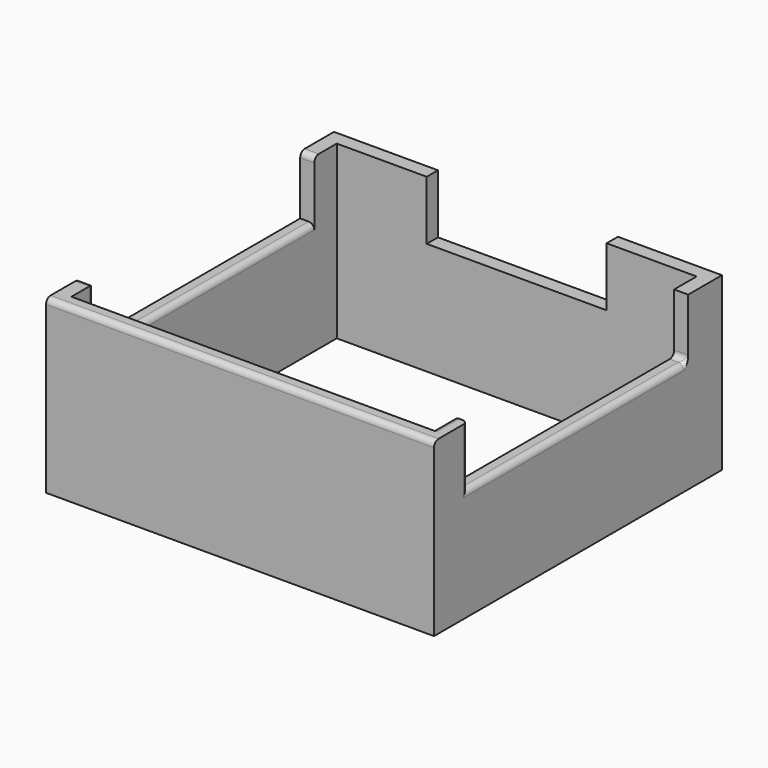
from build123d import *

# Parameters (mm, degrees)
BOX002_W     = 200
BOX002_H     = 49
BOX002_DEPTH = 12
BOX003_W     = 32
BOX003_H     = 200
BOX003_DEPTH = 12
BOX_W        = 64
BOX_H        = 59
BOX_DEPTH    = 30.5
BOX001_W     = 69
BOX001_H     = 64
BOX001_DEPTH = 30.5
FILLET_R     = 1


with BuildPart() as cut_cube:
    # Box002 → Box002 (new body)
    with BuildSketch(Plane(origin=(-50, 7.5, 20), x_dir=(1, 0, 0), z_dir=(0, 0, 1))):
        with Locations((100, 24.5)):
            Rectangle(BOX002_W, BOX002_H)
    extrude(amount=BOX002_DEPTH)


with BuildPart() as cut_cube001:
    # Box003 → Box003 (new body)
    with BuildSketch(Plane(origin=(18.5, 7.5, 20), x_dir=(1, 0, 0), z_dir=(0, 0, 1))):
        with Locations((16, 100)):
            Rectangle(BOX003_W, BOX003_H)
    extrude(amount=BOX003_DEPTH)


with BuildPart() as fusion:
    # Box → Box (new body)
    with BuildSketch(Plane(origin=(2.5, 2.5, 0), x_dir=(1, 0, 0), z_dir=(0, 0, 1))):
        with Locations((32, 29.5)):
            Rectangle(BOX_W, BOX_H)
    extrude(amount=BOX_DEPTH)

    # Fusion: union cut cube, cut cube001
    add(cut_cube.part)
    add(cut_cube001.part)


with BuildPart() as fillet_body:
    # Box001 → Box001 (new body)
    with BuildSketch(Plane.XY):
        with Locations((34.5, 32)):
            Rectangle(BOX001_W, BOX001_H)
    extrude(amount=BOX001_DEPTH)

    # Cut: cut Fusion
    add(fusion.part, mode=Mode.SUBTRACT)

    # Fillet
    fillet_edges = [fillet_body.edges().sort_by_distance(p)[0] for p in [
        (1.25, 7.5, 30.5),
        (66.5, 5, 30.5),
        (34.5, 0, 30.5),
        (2.5, 7.5, 25.25),
        (2.5, 32, 20),
        (1.25, 56.5, 30.5),
        (69, 7.5, 25.25),
        (69, 32, 20),
        (67.75, 56.5, 20),
    ]]
    fillet(fillet_edges, radius=FILLET_R)


solid = fillet_body.part
